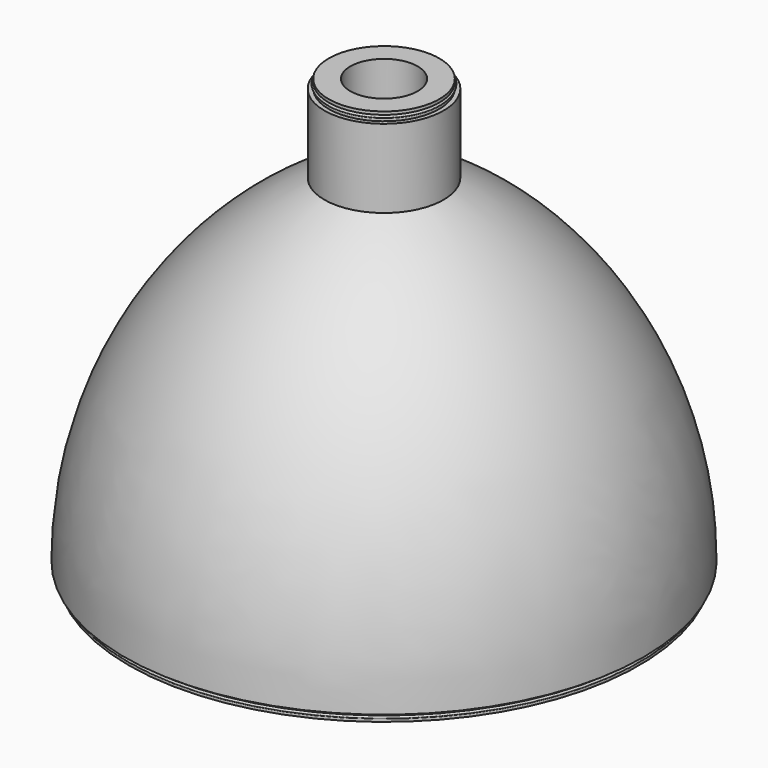
from build123d import *


with BuildPart() as f1:
    # F0 (on Front) → F1 (revolve)
    with BuildSketch(Plane.XZ):
        with BuildLine():
            Line((-3.445155, 24.536031), (-3.445155, 20))
            ThreePointArc((-3.445155, 20), (-11.920189, 11.847281), (-15.007617, 0.5))
            Line((-15.007617, 0.5), (-14.757617, 0.5))
            Line((-14.757617, 0.5), (-14.757617, 0.325))
            Line((-14.757617, 0.325), (-14.757617, 0.175))
            Line((-14.757617, 0.175), (-14.757617, 0))
            Line((-14.757617, 0), (-13.504077, 0))
            Line((-13.504077, 0), (-13.504077, 0.195614))
            ThreePointArc((-13.504077, 0.195614), (-10.613928, 11.109217), (-2.401104, 18.855778))
            Line((-2.401104, 18.855778), (-2.401104, 25.036031))
            Line((-2.401104, 25.036031), (-3.195155, 25.036031))
            Line((-3.195155, 25.036031), (-3.195155, 24.861031))
            Line((-3.195155, 24.861031), (-3.195155, 24.711031))
            Line((-3.195155, 24.711031), (-3.195155, 24.536031))
            Line((-3.195155, 24.536031), (-3.445155, 24.536031))
        make_face()
        with BuildLine():
            Line((-14.757617, 0.175), (-14.757617, 0.325))
            ThreePointArc((-14.757617, 0.325), (-14.832617, 0.25), (-14.757617, 0.175))
        make_face()
        with BuildLine():
            ThreePointArc((-3.195155, 24.861031), (-3.270155, 24.786031), (-3.195155, 24.711031))
            Line((-3.195155, 24.711031), (-3.195155, 24.861031))
        make_face()
        with BuildLine():
            Line((-1.945155, 25.036031), (-2.401104, 25.036031))
            Line((-2.401104, 25.036031), (-2.401104, 18.855778))
            ThreePointArc((-2.401104, 18.855778), (-2.173841, 18.971829), (-1.945155, 19.085053))
            Line((-1.945155, 19.085053), (-1.945155, 24.585053))
            Line((-1.945155, 24.585053), (-1.945155, 25.036031))
        make_face()
    revolve(axis=Axis((0, 0, 12.498313), (0, 0, 1)))


solid = f1.part
